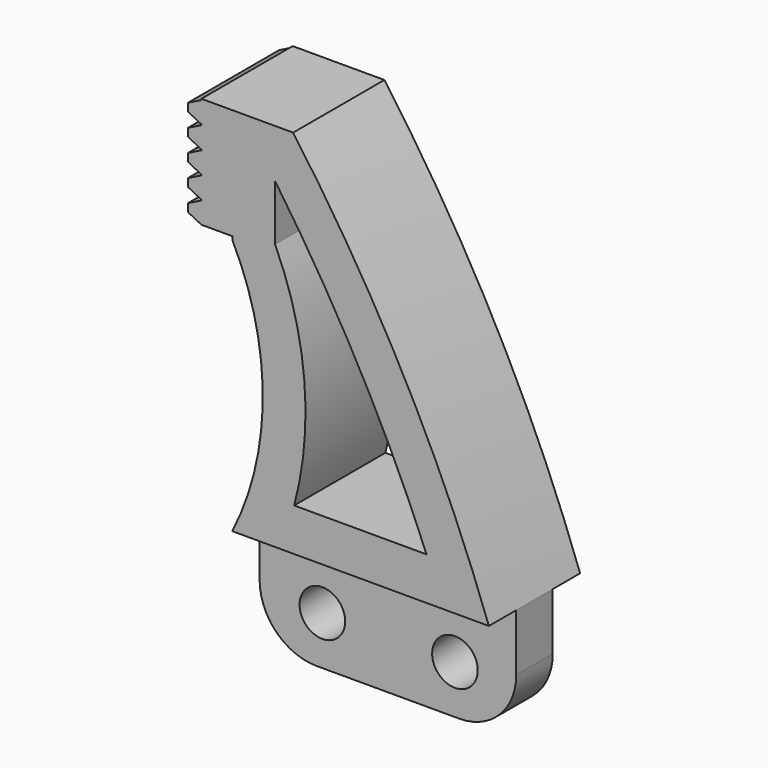
from build123d import *

# Parameters (mm, degrees)
F1_DEPTH = 8
F3_DEPTH = 2.4
F2_W     = 18
F2_H     = 8
F5_DEPTH = 2.4
F7_DEPTH = 25
F8_R     = 1.6
F9_DEPTH = 25
F10_R    = 4


with BuildPart() as f1:
    # F0 (on Front) → F1 (new body)
    with BuildSketch(Plane.XZ):
        Polygon((-11.162, 13.4169430507), (-11.162, 14.9166165667), (-12.1126689762, 14.4412820786), (-12.1126689762, 13.8922775388), align=None)
        Polygon((-11.162, 11.8669430507), (-11.162, 13.3666165667), (-12.1126689762, 12.8912820786), (-12.1126689762, 12.3422775388), align=None)
        Polygon((-9, 7.217), (-9, 15), (-11.162, 15), (-11.162, 14.9166165667), (-11.162, 13.4169430507), (-11.162, 13.3666165667), (-11.162, 11.8669430507), (-11.162, 11.8166165667), (-11.162, 10.3169430507), (-11.162, 10.2666165667), (-11.162, 8.7669430507), (-11.162, 8.7166165667), (-11.162, 7.217), align=None)
        with BuildLine():
            ThreePointArc((9, -11), (3.0408534236, 2.4778498939), (-4.728292115, 15))
            Line((-4.728292115, 15), (-9, 15))
            Line((-9, 15), (-9, 7.217))
            Line((-9, 7.217), (-9, 7))
            ThreePointArc((-9, 7), (-6.8605710995, -2), (-9, -11))
            Line((-9, -11), (9, -11))
        make_face()
        Polygon((-12.1126689762, 10.7922775388), (-11.162, 10.3169430507), (-11.162, 11.8166165667), (-12.1126689762, 11.3412820786), align=None)
        Polygon((-12.1126689762, 9.2422775388), (-11.162, 8.7669430507), (-11.162, 10.2666165667), (-12.1126689762, 9.7912820786), align=None)
        Polygon((-12.1126689762, 7.6923344881), (-11.162, 7.217), (-11.162, 8.7166165667), (-12.1126689762, 8.2412820786), align=None)
        Polygon((9, -15), (9, -11), (-9, -11), (-9, -15), (-9, -19), (9, -19), align=None)
    extrude(amount=-F1_DEPTH)

    # F0 (on Front) → F3 (cut)
    with BuildSketch(Plane.XZ):
        Polygon((9, -15), (9, -11), (-9, -11), (-9, -15), (-9, -19), (9, -19), align=None)
    extrude(amount=-F3_DEPTH, mode=Mode.SUBTRACT)

    # F2 (on face) → F5 (cut)
    with BuildSketch(Plane(origin=(0, 8, 0), x_dir=(-1, 0, 0), z_dir=(0, 1, 0))):
        with Locations((0, -15)):
            Rectangle(F2_W, F2_H)
    extrude(amount=-F5_DEPTH, mode=Mode.SUBTRACT)

    # F6 (on face) → F7 (cut)
    with BuildSketch(Plane.XZ):
        with BuildLine():
            ThreePointArc((4.6301934316, -8), (-0.1534331268, 2.0887492698), (-6, 11.6010360967))
            Line((-6, 11.6010360967), (-6, 7.6869279652))
            ThreePointArc((-6, 7.6869279652), (-3.9444041717, -0.038038396), (-4.6569677883, -8))
            Line((-4.6569677883, -8), (4.6301934316, -8))
        make_face()
    extrude(amount=-F7_DEPTH, mode=Mode.SUBTRACT)

    # F8 (on face) → F9 (cut)
    with BuildSketch(Plane.XZ.offset(-2.4)):
        with Locations((-4.6, -15.6)):
            Circle(F8_R)
        with Locations((4.7, -15.6)):
            Circle(F8_R)
    extrude(amount=-F9_DEPTH, mode=Mode.SUBTRACT)

    # F10
    f10_edges = [f1.edges().sort_by_distance(p)[0] for p in [
        (-9, 4, -19),
        (9, 4, -19),
    ]]
    fillet(f10_edges, radius=F10_R)


solid = f1.part
